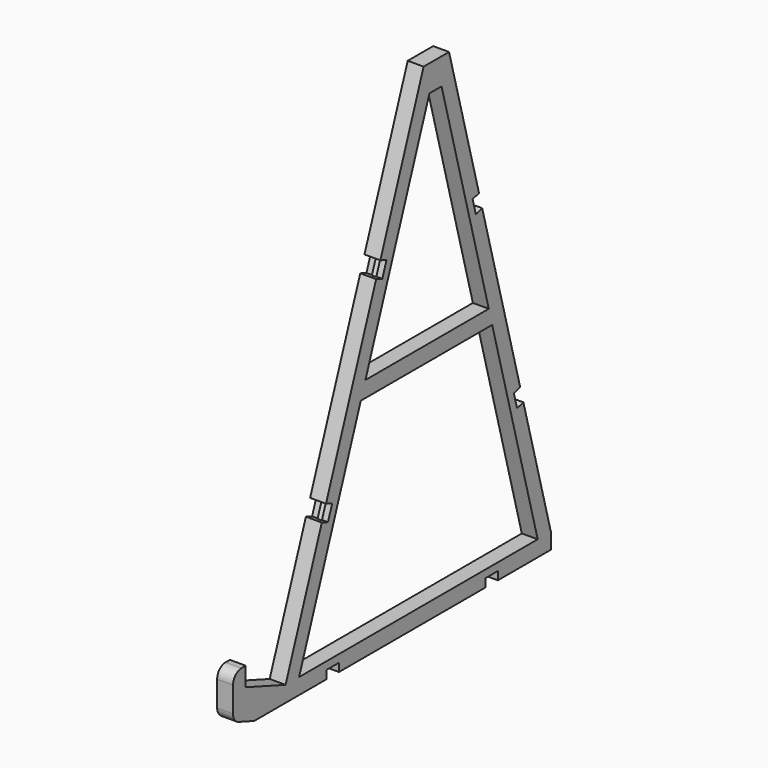
from build123d import *

# Parameters (mm, degrees)
F1_DEPTH = 6
F2_W     = 5.8
F2_H     = 3.1
F3_DEPTH = 25
F5_DEPTH = 80.8
F7_DEPTH = 80.8
F9_DEPTH = 80.8
F10_R    = 4


with BuildPart() as f1:
    # F0 (on Right) → F1 (new body)
    with BuildSketch(Plane.YZ):
        Polygon((-75, 3.6397023427), (-65, 0), (75, 0), (75, 6), (26.9445243494, 185), (14.9445243494, 185), (-50.2061475843, 6), (-69, 12.8404028665), (-69, 20), (-75, 20), align=None)
        Polygon((68.7875391018, 6), (-43.8210809494, 6), (-14.7034622081, 86), (47.3102315485, 86), align=None, mode=Mode.SUBTRACT)
        Polygon((-12.5196408025, 92), (17.6898886416, 175), (23.4167268954, 175), (45.699433482, 92), align=None, mode=Mode.SUBTRACT)
    extrude(amount=F1_DEPTH)

    # F2 (on face) → F3 (cut)
    with BuildSketch(Plane.YZ.offset(6)):
        with Locations((-27.9, 1.55)):
            Rectangle(F2_W, F2_H)
        with Locations((47.1, 1.55)):
            Rectangle(F2_W, F2_H)
        Polygon((-5.4699128373, 128.9117947988), (-7.4536296686, 123.4615775982), (-4.5405825441, 122.4013151539), (-2.5568657128, 127.8515323545), align=None)
        Polygon((-31.1214235867, 58.4348482399), (-33.105140418, 52.9846310393), (-30.1920932936, 51.924368595), (-28.2083764623, 57.3745857955), align=None)
        Polygon((59.0417662259, 53.4862587999), (62.0357488529, 54.290042371), (60.5318957199, 59.8916872861), (57.5379130928, 59.0879037149), align=None)
        Polygon((39.5953895053, 125.9213223564), (42.5893721323, 126.7251059276), (41.0855189992, 132.3267508426), (38.0915363722, 131.5229672715), align=None)
    extrude(amount=-F3_DEPTH, mode=Mode.SUBTRACT)

    # F4 (on face) → F5 (join, through all)
    with BuildSketch(Plane(origin=(0, 13.1563663869, 36.14681957), x_dir=(1, 0, 0), z_dir=(0, 0.3420201433, 0.9396926208))):
        with BuildLine():
            ThreePointArc((2.25, -46.130467263), (3, -46.880467263), (3.75, -46.130467263))
            Line((3.75, -46.130467263), (2.25, -46.130467263))
        make_face()
    extrude(amount=F5_DEPTH)

    # F6 (on face) → F7 (join, through all)
    with BuildSketch(Plane(origin=(0, -30.8, 0), x_dir=(-1, 0, 0), z_dir=(0, 1, 0))):
        with BuildLine():
            ThreePointArc((-3.75, 3.1), (-3, 2.35), (-2.25, 3.1))
            Line((-2.25, 3.1), (-3.75, 3.1))
        make_face()
    extrude(amount=F7_DEPTH)

    # F8 (on face) → F9 (join, through all)
    with BuildSketch(Plane(origin=(0, -9.4246030822, 35.1053429162), x_dir=(1, 0, 0), z_dir=(0, -0.2592850229, 0.9658008474))):
        with BuildLine():
            Line((2.25, 70.8907736942), (3.75, 70.8907736942))
            ThreePointArc((3.75, 70.8907736942), (3, 71.6407736942), (2.25, 70.8907736942))
        make_face()
    extrude(amount=F9_DEPTH)

    # F10
    f10_edges = [f1.edges().sort_by_distance(p)[0] for p in [
        (3, -75, 3.639702),
        (3, -75, 20),
    ]]
    fillet(f10_edges, radius=F10_R)


solid = f1.part
